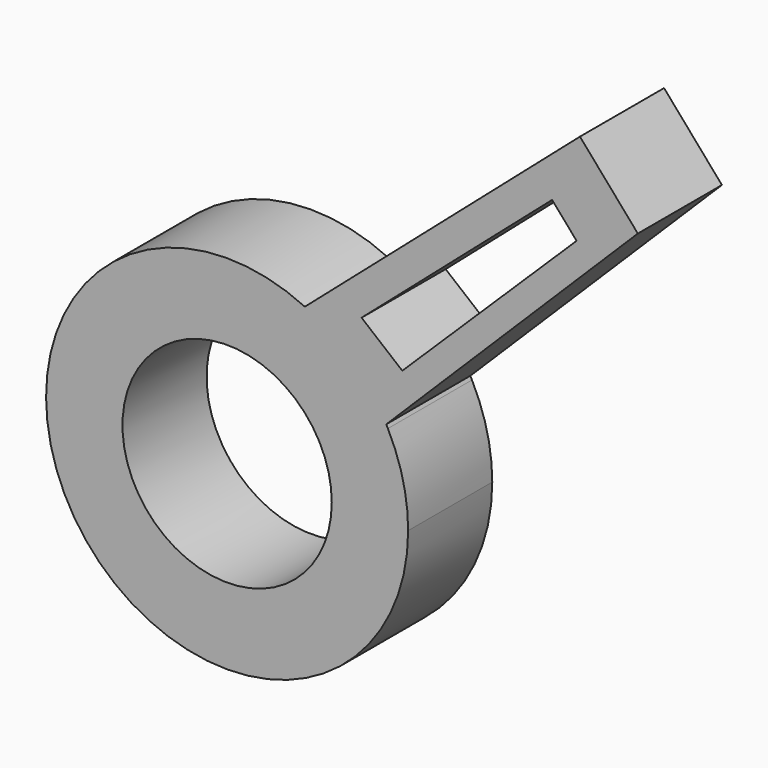
from build123d import *

# Parameters (mm, degrees)
F0_R     = 9.101215
F1_DEPTH = 9.144
F3_DEPTH = 9.144


with BuildPart() as f1:
    # F0 (on Front) → F1 (new body)
    with BuildSketch(Plane.XZ):
        with BuildLine():
            ThreePointArc((-19.067402, -17.204188), (-40.212946, -39.010997), (-10.913195, -30.998787))
            ThreePointArc((-10.913195, -30.998787), (-11.36082, -27.271094), (-12.678245, -23.755351))
            ThreePointArc((-12.678245, -23.755351), (-15.386403, -20.005377), (-19.067402, -17.204188))
        make_face()
        with Locations((-26.658566, -30.998787)):
            Circle(F0_R, mode=Mode.SUBTRACT)
    extrude(amount=F1_DEPTH)

    # F2 (on Front) → F3 (join)
    with BuildSketch(Plane.XZ):
        Polygon((4.029281, 4.029281), (-22.448849, -18.995181), (-14.390289, -25.039099), (9.060461, -1.756575), align=None)
        Polygon((-11.423091, -18.922271), (-14.96415, -16.013544), (1.608393, -1.602637), (3.734771, -4.047971), align=None, mode=Mode.SUBTRACT)
    extrude(amount=F3_DEPTH)


solid = f1.part
